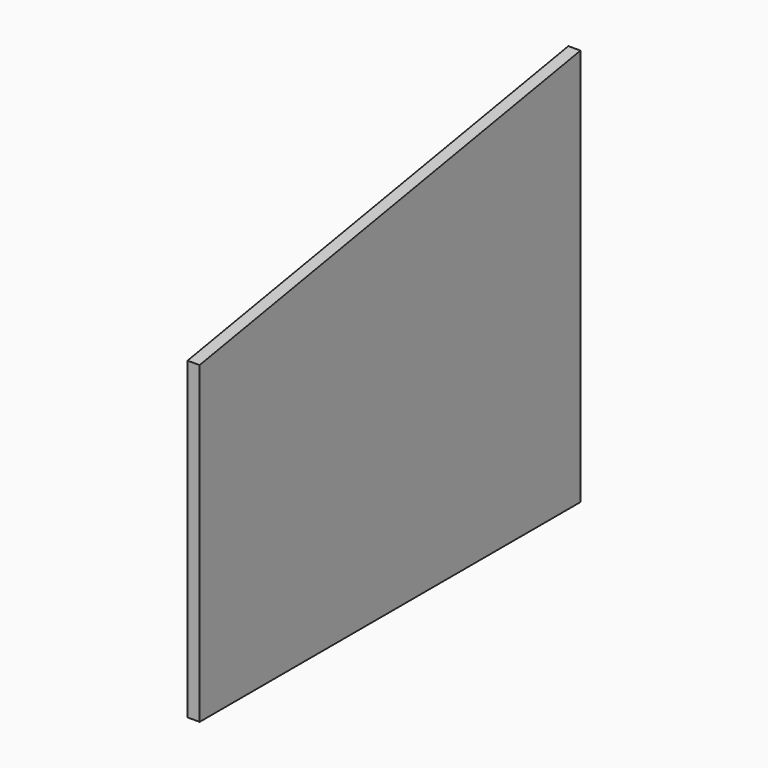
from build123d import *

# Parameters (mm, degrees)
F1_DEPTH = 12.7
F2_DEPTH = 6.35


with BuildPart() as f1:
    # F0 (on Right) → F1 (new body)
    with BuildSketch(Plane.YZ):
        Polygon((-218.73778, 117.002371), (-218.73778, -48.097629), (31.45222, -48.097629), (31.45222, 117.002371), (31.45222, 160.831173), align=None)
    extrude(amount=F1_DEPTH)

    # F1_face (on face) → F2 (cut)
    with BuildSketch(Plane(origin=(12.7, -88.756557, 45.837561), x_dir=(0, 1, 0), z_dir=(1, 0, 0))):
        Polygon((-129.981223, 71.16481), (-129.981223, -93.93519), (120.208777, -93.93519), (120.208777, 114.993612), align=None)
    extrude(amount=-F2_DEPTH, mode=Mode.SUBTRACT)


solid = f1.part
